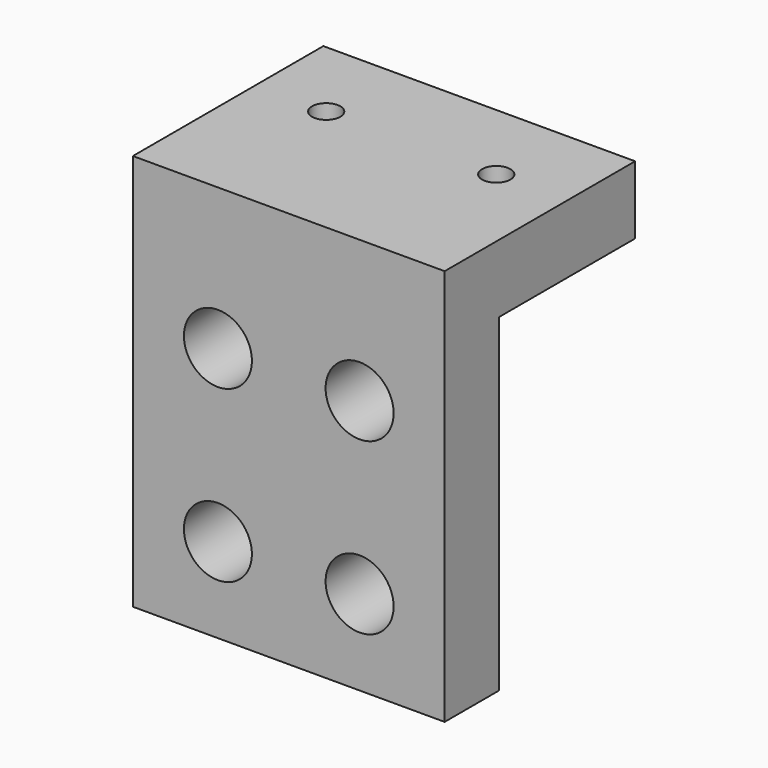
from build123d import *

# Parameters (mm, degrees)
F0_W     = 55
F0_H     = 30
F1_DEPTH = 12
F3_D     = 5
F3_DEPTH = 25
F4_W     = 55
F4_H     = 58
F4_H_2   = 12
F5_DEPTH = 12
F7_D     = 12
F7_DEPTH = 12


with BuildPart() as f1:
    # F0 (on Top) → F1 (new body)
    with BuildSketch(Plane.XY):
        Rectangle(F0_W, F0_H)
    extrude(amount=F1_DEPTH)

    # F3
    with Locations(Plane.XY.offset(12)):
        with Locations((-15, 0), (15, 0)):
            Hole(F3_D / 2, depth=F3_DEPTH)

    # F4 (on face) → F5 (join)
    with BuildSketch(Plane.XZ.offset(15)):
        with Locations((0, -29)):
            Rectangle(F4_W, F4_H)
        with Locations((0, 6)):
            Rectangle(F4_W, F4_H_2)
    extrude(amount=F5_DEPTH)

    # F7
    with Locations(Plane(origin=(0, -15, 0), x_dir=(-1, 0, 0), z_dir=(0, 1, 0))):
        with Locations((12.5, -13), (12.5, -43), (-12.5, -43), (-12.5, -13)):
            Hole(F7_D / 2, depth=F7_DEPTH)


solid = f1.part
